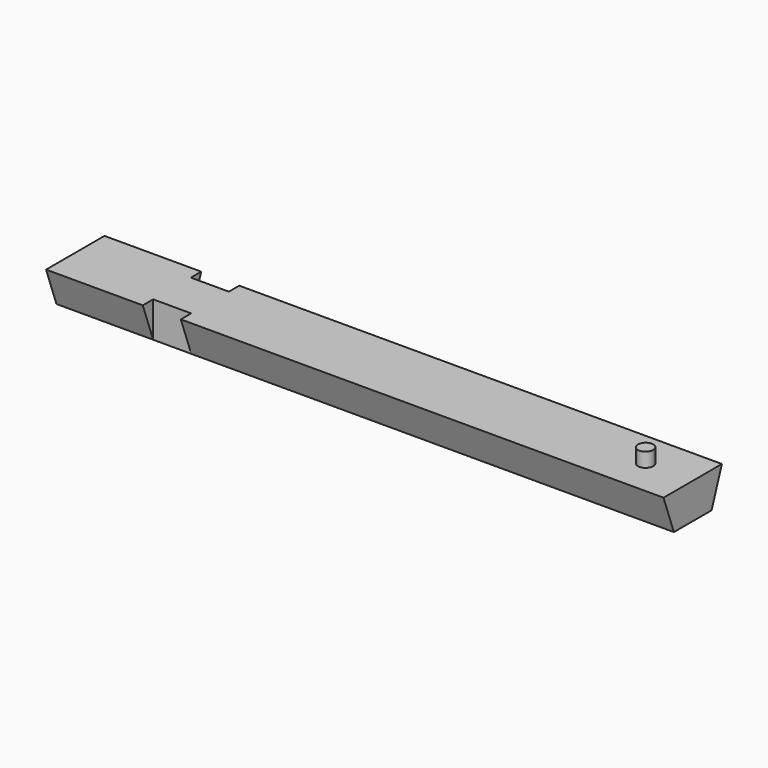
from build123d import *

# Parameters (mm, degrees)
F1_DEPTH  = 203
F2_R      = 2.5
F3_DEPTH  = 10
F4_W      = 12.5
F4_H      = 4.258452
F5_DEPTH  = 11.701
F3_FACE_R = 2.5
F6_DEPTH  = 14.7


with BuildPart() as f1:
    # F0 (on Right) → F1 (new body)
    with BuildSketch(Plane.YZ):
        Polygon((-12, 11.7), (-7.741548, 0), (0, 0), (0, 11.7), align=None)
        Polygon((0, 11.7), (0, 0), (7.741548, 0), (12, 11.7), align=None)
    extrude(amount=F1_DEPTH)

    # F2 (on face) → F3 (cut)
    with BuildSketch(Plane.XY.offset(11.7)):
        with Locations((187.5, 0)):
            Circle(F2_R)
    extrude(amount=-F3_DEPTH, mode=Mode.SUBTRACT)

    # F4 (on face) → F5 (cut, through all)
    with BuildSketch(Plane.XY.offset(11.7)):
        with Locations((38.05, 9.870774)):
            Rectangle(F4_W, F4_H)
        with Locations((38.05, -9.870774)):
            Rectangle(F4_W, F4_H)
    extrude(amount=-F5_DEPTH, mode=Mode.SUBTRACT)

    # F3_face (on face) → F6 (join)
    with BuildSketch(Plane(origin=(187.5, 0, 1.7), x_dir=(1, 0, 0), z_dir=(0, 0, 1))):
        Circle(F3_FACE_R)
    extrude(amount=F6_DEPTH)


solid = f1.part
